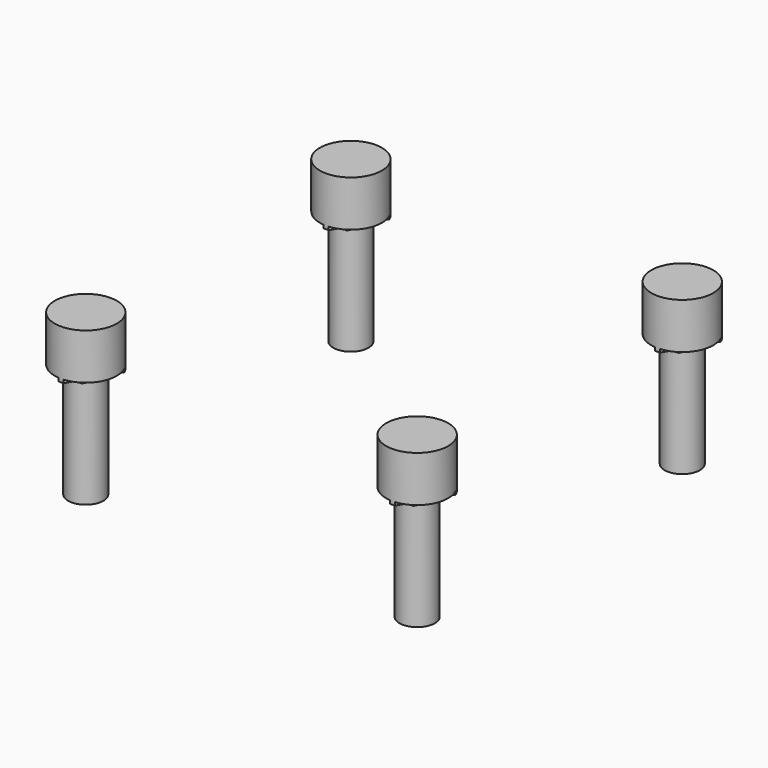
from build123d import *

# Parameters (mm, degrees)
B2HOLE00_HEAD001_R               = 2.9
B2HOLE00_HEAD001_DEPTH           = 4.3
B2HOLE00_SUP1AWAY001_R           = 2.9
B2HOLE00_SUP1AWAY001_DEPTH       = 3.6
B2HOLE00_SUP1001_DEPTH           = 3.6
B2HOLE00_SUP1001_PLACEMENT_ANGLE = 30
B2HOLE00_SUP2001_DEPTH           = 3.9
B2HOLE00_SHANK001_R              = 1.65
B2HOLE00_SHANK001_DEPTH          = 15


with BuildPart() as b2hole00_head001:
    # b2hole00_head001 → b2hole00_head001 (new body)
    with BuildSketch(Plane.XY.offset(9.7)):
        Circle(B2HOLE00_HEAD001_R)
    extrude(amount=B2HOLE00_HEAD001_DEPTH)


with BuildPart() as b2hole00_sup1away001:
    # b2hole00_sup1away001 → b2hole00_sup1away001 (new body)
    with BuildSketch(Plane.XY.offset(9.4)):
        Circle(B2HOLE00_SUP1AWAY001_R)
    extrude(amount=B2HOLE00_SUP1AWAY001_DEPTH)


with BuildPart() as sup1cut005:
    # b2hole00_sup1001 → b2hole00_sup1001 (new body)
    with BuildSketch(Plane.XY):
        Polygon((3.3, 0), (-1.65, 2.857884), (-1.65, -2.857884), align=None)
    extrude(amount=B2HOLE00_SUP1001_DEPTH)


with BuildPart() as sup1cut005_1:
    # b2hole00_sup1001 placement: moved
    add(sup1cut005.part.moved(Location((0, 0, 9.4))).rotate(Axis((0, 0, 9.4), (0, 0, 1)), B2HOLE00_SUP1001_PLACEMENT_ANGLE))

    # sup1cut005: intersect b2hole00_sup1away001
    add(b2hole00_sup1away001.part, mode=Mode.INTERSECT)


with BuildPart() as b2hole00_sup2001:
    # b2hole00_sup2001 → b2hole00_sup2001 (new body)
    with BuildSketch(Plane.XY.offset(9.1)):
        Polygon((1.8975, 0), (0.94875, 1.643283), (-0.94875, 1.643283), (-1.8975, 0), (-0.94875, -1.643283), (0.94875, -1.643283), align=None)
    extrude(amount=B2HOLE00_SUP2001_DEPTH)


with BuildPart() as b2hole00001:
    # b2hole00_shank001 → b2hole00_shank001 (new body)
    with BuildSketch(Plane.XY.offset(-1)):
        Circle(B2HOLE00_SHANK001_R)
    extrude(amount=B2HOLE00_SHANK001_DEPTH)

    # b2hole00001: union b2hole00_head001, sup1cut005, b2hole00_sup2001
    add(b2hole00_head001.part)
    add(sup1cut005_1.part)
    add(b2hole00_sup2001.part)


with BuildPart() as b2hole00001_1:
    # b2hole00001 placement: moved
    add(b2hole00001.part.moved(Location((-15.5, -15.5, -4.5))))


with BuildPart() as b2hole00002:
    # Clone035 base: copy of b2hole00001
    add(b2hole00001_1.part)


with BuildPart() as b2hole00002_1:
    # Clone035 placement: moved
    add(b2hole00002.part.moved(Location((0, 31, 0))))


with BuildPart() as b2hole00003:
    # Clone036 base: copy of b2hole00001
    add(b2hole00001_1.part)


with BuildPart() as b2hole00003_1:
    # Clone036 placement: moved
    add(b2hole00003.part.moved(Location((31, 0, 0))))


with BuildPart() as b2hole00004:
    # Clone037 base: copy of b2hole00001
    add(b2hole00001_1.part)


with BuildPart() as b2hole00004_1:
    # Clone037 placement: moved
    add(b2hole00004.part.moved(Location((31, 31, 0))))


with BuildPart() as b2holes001:
    # b2holes001 base: copy of b2hole00001
    add(b2hole00001_1.part)

    add(b2hole00002_1.part)
    add(b2hole00003_1.part)
    add(b2hole00004_1.part)


solid = b2holes001.part
